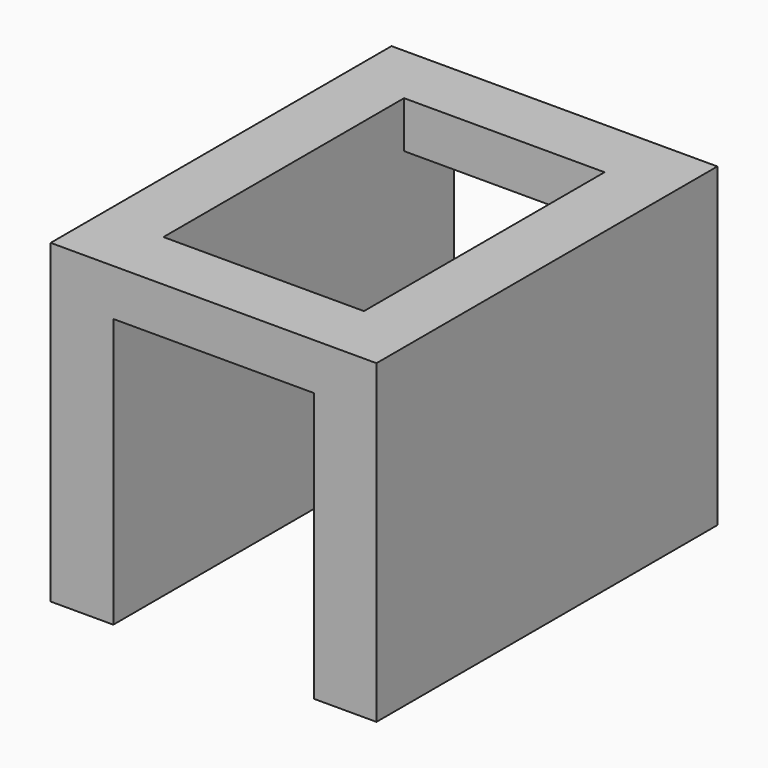
from build123d import *

# Parameters (mm, degrees)
SKETCH021_W     = 65
SKETCH021_H     = 85
PAD015_DEPTH    = 63
SKETCH022_W     = 40
SKETCH022_H     = 85
POCKET009_DEPTH = 53.7
SKETCH024_W     = 40
SKETCH024_H     = 60
POCKET010_DEPTH = 63


with BuildPart() as part:
    # Sketch021 → Pad015 (new body)
    with BuildSketch(Plane.XY):
        with Locations((0, -30)):
            Rectangle(SKETCH021_W, SKETCH021_H)
    extrude(amount=PAD015_DEPTH)

    # Sketch022 (on Face5 of Pad015) → Pocket009 (cut)
    with BuildSketch(Plane(origin=(0, 0, 0), x_dir=(1, 0, 0), z_dir=(0, 0, -1))):
        with Locations((0, 30)):
            Rectangle(SKETCH022_W, SKETCH022_H)
    extrude(amount=-POCKET009_DEPTH, mode=Mode.SUBTRACT)

    # Sketch024 → Pocket010 (cut)
    with BuildSketch(Plane.XY):
        with Locations((0, -30)):
            Rectangle(SKETCH024_W, SKETCH024_H)
    extrude(amount=POCKET010_DEPTH, mode=Mode.SUBTRACT)


with BuildPart() as part_1:
    # Body003 placement: moved
    add(part.part.moved(Location((0, 0, 15))))


solid = part_1.part
